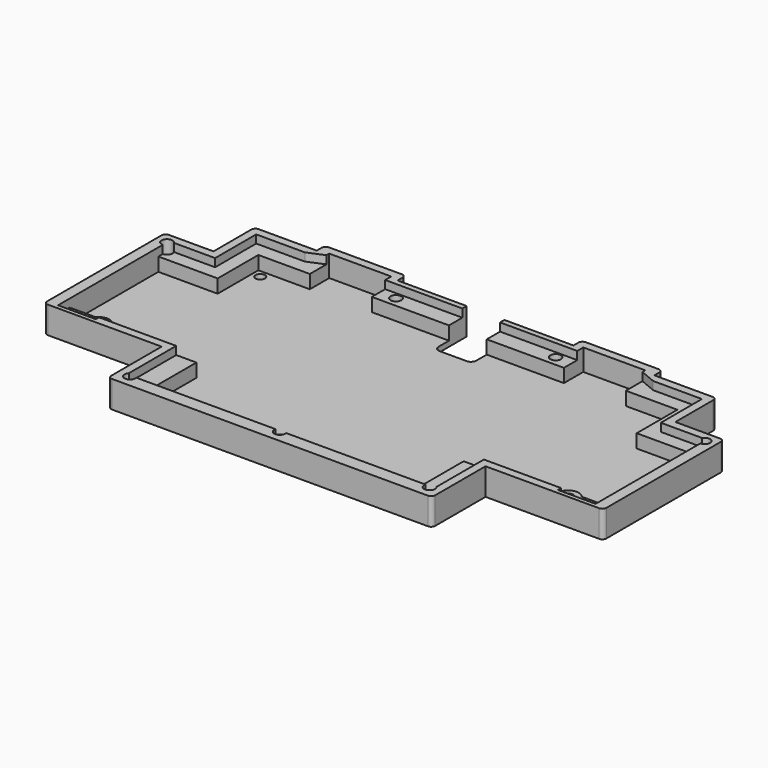
from build123d import *

# Parameters (mm, degrees)
PAD002_DEPTH    = 10
POCKET006_DEPTH = 8
POCKET007_DEPTH = 3
PAD003_START    = -3
SKETCH017_R     = 4
PAD003_DEPTH    = 7
SKETCH016_R     = 2
POCKET008_DEPTH = 10.001
POCKET009_START = -9
SKETCH018_R     = 3.25
POCKET009_DEPTH = 5
POCKET010_DEPTH = 10.001
SKETCH020_R     = 1.75
POCKET011_DEPTH = 10.001
FILLET001_R     = 1.5


with BuildPart() as part:
    # Sketch013 → Pad002 (new body)
    with BuildSketch(Plane.XY):
        Polygon((-103.725, 5.8125), (-103.725, 61.8625), (-85.675, 61.8625), (-85.675, 80.9125), (-62.625, 80.9125), (-62.625, 84.7225), (-32.625, 84.7225), (-32.625, 80.9125), (32.625, 80.9125), (32.625, 84.7225), (62.625, 84.7225), (62.625, 80.9125), (85.675, 80.9125), (85.675, 61.8625), (103.725, 61.8625), (103.725, 5.8125), (60.075, 5.8125), (60.075, -19), (-60.075, -19), (-60.075, 5.8125), align=None)
    extrude(amount=-PAD002_DEPTH)

    # Sketch014 → Pocket006 (cut)
    with BuildSketch(Plane.XY):
        Polygon((-99.725, 12.8125), (-85.725, 12.8125), (-85.725, 8.8125), (-49.575, 8.8125), (-49.575, -14), (49.575, -14), (49.575, 8.8125), (85.725, 8.8125), (85.725, 12.8125), (99.725, 12.8125), (99.725, 53.8625), (77.725, 53.8625), (77.725, 72.7225), (58.625, 72.7225), (58.625, 81.7225), (35.625, 81.7225), (35.625, 72.7225), (-35.625, 72.7225), (-35.625, 81.7225), (-58.625, 81.7225), (-58.625, 72.7225), (-77.725, 72.7225), (-77.725, 53.8625), (-99.725, 53.8625), align=None)
    extrude(amount=-POCKET006_DEPTH, mode=Mode.SUBTRACT)

    # Sketch015 → Pocket007 (cut)
    with BuildSketch(Plane.XY):
        Polygon((-57.075, -14), (-57.075, 8.8125), (-85.725, 8.8125), (-85.725, 7.3125), (-99.725, 7.3125), (-99.725, 58.8625), (-82.675, 58.8625), (-82.675, 77.9125), (-64.625, 77.9125), (-55.481, 81.7225), (-35.625, 81.7225), (-35.625, 78.9125), (35.625, 78.9125), (35.625, 81.7225), (55.481, 81.7225), (64.625, 77.9125), (82.675, 77.9125), (82.675, 58.8625), (99.725, 58.8625), (99.725, 7.3125), (85.725, 7.3125), (85.725, 8.8125), (57.075, 8.8125), (57.075, -14), align=None)
    extrude(amount=-POCKET007_DEPTH, mode=Mode.SUBTRACT)

    # Sketch017 → Pad003 (join)
    with BuildSketch(Plane.XY.offset(PAD003_START)):
        with Locations((-87.075, 10.3125)):
            Circle(SKETCH017_R)
        with Locations((87.075, 10.3125)):
            Circle(SKETCH017_R)
        with Locations((0, -14.5)):
            Circle(SKETCH017_R)
    extrude(amount=-PAD003_DEPTH)

    # Sketch016 → Pocket008 (cut, through all)
    with BuildSketch(Plane.XY):
        with Locations((-29.625, 76.4125)):
            Circle(SKETCH016_R)
        with Locations((29.625, 76.4125)):
            Circle(SKETCH016_R)
        with Locations((87.075, 10.3125)):
            Circle(SKETCH016_R)
        with Locations((55.575, -14.5)):
            Circle(SKETCH016_R)
        with Locations((-55.575, -14.5)):
            Circle(SKETCH016_R)
        with Locations((-87.075, 10.3125)):
            Circle(SKETCH016_R)
        with Locations((99.725, 57.8625)):
            Circle(SKETCH016_R)
        with Locations((-99.725, 57.8625)):
            Circle(SKETCH016_R)
        with Locations((0, -14.5)):
            Circle(SKETCH016_R)
    extrude(amount=-POCKET008_DEPTH, mode=Mode.SUBTRACT)

    # Sketch018 → Pocket009 (cut)
    with BuildSketch(Plane.XY.offset(POCKET009_START)):
        with Locations((-99.725, 57.8625)):
            Circle(SKETCH018_R)
        with Locations((-87.075, 10.3125)):
            Circle(SKETCH018_R)
        with Locations((-55.575, -14.5)):
            Circle(SKETCH018_R)
        with Locations((55.575, -14.5)):
            Circle(SKETCH018_R)
        with Locations((87.075, 10.3125)):
            Circle(SKETCH018_R)
        with Locations((99.725, 57.8625)):
            Circle(SKETCH018_R)
        with Locations((29.625, 76.4125)):
            Circle(SKETCH018_R)
        with Locations((-29.625, 76.4125)):
            Circle(SKETCH018_R)
        with Locations((0, -14.5)):
            Circle(SKETCH018_R)
    extrude(amount=-POCKET009_DEPTH, mode=Mode.SUBTRACT)

    # Sketch019 (on Face5 of Pocket009) → Pocket010 (cut, through all)
    with BuildSketch(Plane(origin=(0, 0, -10), x_dir=(1, 0, 0), z_dir=(0, 0, -1))):
        with BuildLine():
            Line((0, -80.9125), (7, -80.9125))
            Line((7, -80.9125), (7, -67.9125))
            ThreePointArc((7, -67.9125), (6.414214, -66.498286), (5, -65.9125))
            Line((5, -65.9125), (0, -65.9125))
            Line((-5, -65.9125), (0, -65.9125))
            ThreePointArc((-5, -65.9125), (-6.414214, -66.498286), (-7, -67.9125))
            Line((-7, -80.9125), (-7, -67.9125))
            Line((0, -80.9125), (-7, -80.9125))
        make_face()
    extrude(amount=-POCKET010_DEPTH, mode=Mode.SUBTRACT)

    # Sketch020 → Pocket011 (cut, through all)
    with BuildSketch(Plane.XY):
        with Locations((-97.075, 18.3125)):
            Circle(SKETCH020_R)
        with Locations((-74.725, 69.8625)):
            Circle(SKETCH020_R)
        with Locations((74.725, 69.8625)):
            Circle(SKETCH020_R)
        with Locations((97.075, 18.3125)):
            Circle(SKETCH020_R)
        with Locations((-45.575, -11.5)):
            Circle(SKETCH020_R)
        with Locations((45.575, -11.5)):
            Circle(SKETCH020_R)
    extrude(amount=-POCKET011_DEPTH, mode=Mode.SUBTRACT)

    # Fillet001
    fillet001_edges = [part.edges().sort_by_distance(p)[0] for p in [
        (-60.075, -19, -5),
        (-103.725, 5.8125, -5),
        (-103.725, 61.8625, -5),
        (-85.675, 80.9125, -5),
        (-62.625, 84.7225, -5),
        (-32.625, 84.7225, -5),
        (32.625, 84.7225, -5),
        (62.625, 84.7225, -5),
        (85.675, 80.9125, -5),
        (103.725, 61.8625, -5),
        (103.725, 5.8125, -5),
        (60.075, -19, -5),
    ]]
    fillet(fillet001_edges, radius=FILLET001_R)


solid = part.part
